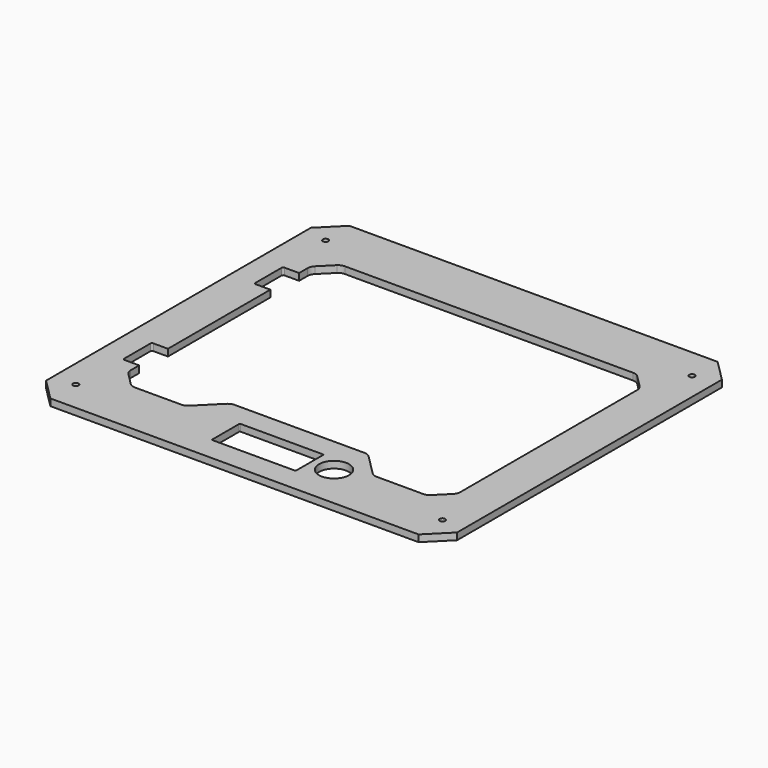
from build123d import *

# Parameters (mm, degrees)
SKETCH_R        = 3.25
PAD_DEPTH       = 8
CHAMFER_SIZE    = 25
CHAMFER001_SIZE = 20
FILLET_R        = 10
FILLET001_R     = 10
FILLET002_R     = 1
SKETCH002_R     = 17.5
SKETCH002_W     = 19
SKETCH002_H     = 42
POCKET_DEPTH    = 8.001
FILLET003_R     = 2


with BuildPart() as fillet002:
    # Sketch → Pad (new body)
    with BuildSketch(Plane.XY):
        with BuildLine():
            Line((-240, 218.25), (0, 218.25))
            Line((0, 153.25), (0, 218.25))
            Line((-192.5, 153.25), (0, 153.25))
            Line((-192.5, -153.25), (-192.5, 153.25))
            Line((-110.002136, -153.25), (-192.5, -153.25))
            Line((-82.931069, -126.178933), (-110.002136, -153.25))
            ThreePointArc((-75.86, -123.25), (-79.686835, -124.011205), (-82.931069, -126.178933))
            Line((0, -123.25), (-75.86, -123.25))
            Line((0, -123.25), (0, -149.25))
            Line((0, -149.25), (-49, -149.25))
            Line((-49, -149.25), (-49, -190.25))
            Line((0, -190.25), (-49, -190.25))
            Line((0, -190.25), (0, -218.25))
            Line((0, -218.25), (-240, -218.25))
            Line((-240, -218.25), (-240, 218.25))
        make_face()
        with Locations((-214, -182.25)):
            Circle(SKETCH_R, mode=Mode.SUBTRACT)
        with Locations((-214, 182.25)):
            Circle(SKETCH_R, mode=Mode.SUBTRACT)
    extrude(amount=PAD_DEPTH)

    # Chamfer
    chamfer_edges = [fillet002.edges().sort_by_distance(p)[0] for p in [
        (-240, 218.25, 4),
        (-240, -218.25, 4),
    ]]
    chamfer(chamfer_edges, length=CHAMFER_SIZE)

    # Chamfer001
    chamfer001_edges = [fillet002.edges().sort_by_distance(p)[0] for p in [
        (-192.5, -153.25, 4),
        (-192.5, 153.25, 4),
    ]]
    chamfer(chamfer001_edges, length=CHAMFER001_SIZE)

    # Fillet
    fillet_edges = [fillet002.edges().sort_by_distance(p)[0] for p in [
        (-192.5, -133.25, 4),
        (-172.5, -153.25, 4),
        (-172.5, 153.25, 4),
        (-192.5, 133.25, 4),
    ]]
    fillet(fillet_edges, radius=FILLET_R)

    # Fillet001
    fillet001_edges = [fillet002.edges().sort_by_distance(p)[0] for p in [
        (-110.002136, -153.25, 4),
    ]]
    fillet(fillet001_edges, radius=FILLET001_R)

    # Fillet002
    fillet002_edges = [fillet002.edges().sort_by_distance(p)[0] for p in [
        (-49, -149.25, 4),
        (-49, -190.25, 4),
    ]]
    fillet(fillet002_edges, radius=FILLET002_R)


with BuildPart() as fillet003:
    # Part__Mirroring: instance of Fillet002
    add(fillet002.part.mirror(Plane(origin=(0, 0, 0), x_dir=(0, -1, 0), z_dir=(1, 0, 0))))

    # Fusion: union Fillet002
    add(fillet002.part)

    # Sketch002 → Pocket (cut, through all)
    with BuildSketch(Plane.XY.offset(8)):
        with Locations((74.9, -166.55)):
            Circle(SKETCH002_R)
        with Locations((-202, 95.75)):
            Rectangle(SKETCH002_W, SKETCH002_H)
        with Locations((-202, -95.75)):
            Rectangle(SKETCH002_W, SKETCH002_H)
    extrude(amount=-POCKET_DEPTH, mode=Mode.SUBTRACT)

    # Fillet003
    fillet003_edges = [fillet003.edges().sort_by_distance(p)[0] for p in [
        (-211.5, -74.75, 4),
        (-211.5, -116.75, 4),
        (-211.5, 116.75, 4),
        (-211.5, 74.75, 4),
    ]]
    fillet(fillet003_edges, radius=FILLET003_R)


solid = fillet003.part
